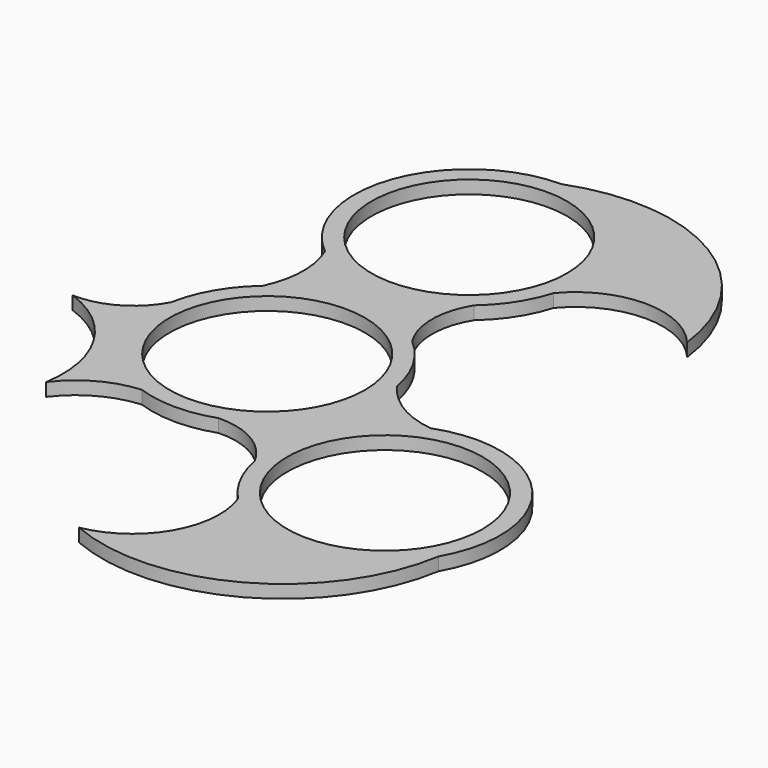
from build123d import *

# Parameters (mm, degrees)
F0_R     = 11.2
F1_DEPTH = 1.5


with BuildPart() as f1:
    # F0 (on Top) → F1 (new body)
    with BuildSketch(Plane.XY):
        with BuildLine():
            ThreePointArc((-8.377935, 18.747217), (-7.527804, 14.378497), (-8.559108, 10.048964))
            ThreePointArc((-8.559108, 10.048964), (-11.419666, 6.620515), (-12.973553, 2.434527))
            ThreePointArc((-12.973553, 2.434527), (-16.190972, -0.896888), (-20.683173, -2.023938))
            ThreePointArc((-20.683173, -2.023938), (-13.707356, -7.755031), (-12.046598, -16.629113))
            ThreePointArc((-12.046598, -16.629113), (-8.688241, -13.708517), (-4.423104, -12.436887))
            ThreePointArc((-4.423104, -12.436887), (-0.023701, -13.199979), (4.378414, -12.45269))
            ThreePointArc((4.378414, -12.45269), (8.872214, -13.573349), (12.094369, -16.900184))
            ThreePointArc((12.094369, -16.900184), (13.318162, -20.486099), (15.510199, -23.576637))
            ThreePointArc((15.510199, -23.576637), (14.769673, -31.977322), (7.864729, -36.81898))
            ThreePointArc((7.864729, -36.81898), (26.018371, -35.922211), (36.500993, -21.073858))
            ThreePointArc((36.500993, -21.073858), (35.136468, -5.935983), (20.424534, -2.118103))
            ThreePointArc((20.424534, -2.118103), (16.216045, -0.669979), (12.982212, 2.387923))
            ThreePointArc((12.982212, 2.387923), (11.443367, 6.579464), (8.595139, 10.018163))
            ThreePointArc((8.595139, 10.018163), (7.318758, 14.470237), (8.588805, 18.924123))
            ThreePointArc((8.588805, 18.924123), (11.082401, 21.776916), (12.662867, 25.220545))
            ThreePointArc((12.662867, 25.220545), (20.308337, 28.779573), (27.953807, 25.220545))
            ThreePointArc((27.953807, 25.220545), (18.100361, 40.493676), (0, 42.147717))
            ThreePointArc((0, 42.147717), (-12.427522, 33.397065), (-8.377935, 18.747217))
        make_face()
        Circle(F0_R, mode=Mode.SUBTRACT)
        with Locations((25.069458, -14.473858)):
            Circle(F0_R, mode=Mode.SUBTRACT)
        with Locations((0, 28.947717)):
            Circle(F0_R, mode=Mode.SUBTRACT)
    extrude(amount=F1_DEPTH)


solid = f1.part
